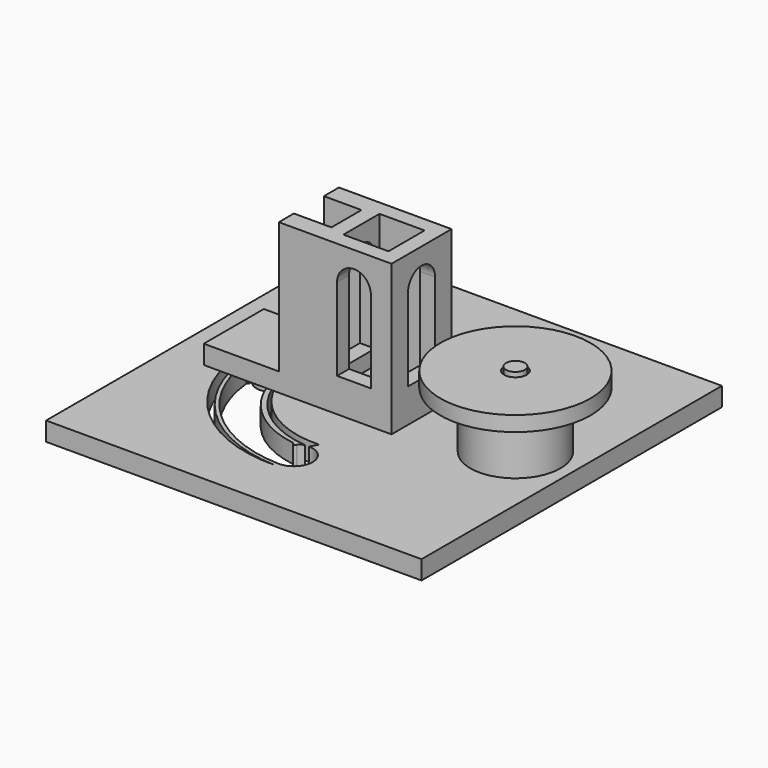
from build123d import *

# Parameters (mm, degrees)
SKETCH_W        = 100
SKETCH_H        = 100
PAD_DEPTH       = 5
SKETCH001_R     = 7
POCKET_DEPTH    = 5
SKETCH007_R     = 12
PAD004_DEPTH    = 15
SKETCH008_R     = 2.5
PAD005_DEPTH    = 5
SKETCH002_W     = 50
SKETCH002_H     = 20
PAD001_DEPTH    = 5
SKETCH003_R     = 6
SKETCH003_R_2   = 4
PAD002_DEPTH    = 5
SKETCH004_W     = 12
SKETCH004_H     = 12
PAD003_DEPTH    = 35
POCKET001_DEPTH = 20
POCKET002_DEPTH = 4
SKETCH009_R     = 20
SKETCH009_R_2   = 3
PAD006_DEPTH    = 4


with BuildPart() as obj1:
    # Sketch → Pad (new body)
    with BuildSketch(Plane.XY):
        Rectangle(SKETCH_W, SKETCH_H)
    extrude(amount=PAD_DEPTH)

    # Sketch001 (on Face6 of Pad) → Pocket (cut)
    with BuildSketch(Plane.XY.offset(5)):
        Circle(SKETCH001_R)
        with BuildLine():
            ThreePointArc((-25, 0), (-30, 5), (-35, 0))
            Line((-37, 0), (-35, 0))
            ThreePointArc((-37, 0), (-26.099801, -25.806976), (0, -35.986108))
            ThreePointArc((-34.986108, -1), (-24.455844, -25.455844), (0, -35.986108))
            ThreePointArc((-34.986108, -1), (-34.572138, -1.816852), (-33.940654, -2.480062))
            ThreePointArc((-33.841405, -3.475124), (-33.393498, -2.927969), (-33.940654, -2.480062))
            ThreePointArc((-33.841405, -3.475124), (-22.86642, -25.620187), (0, -35))
            ThreePointArc((0, -35), (5, -30), (0, -25))
            Line((1.154701, -23), (0, -25))
            ThreePointArc((-24.059928, 0), (-16.229983, -16.737374), (1.154701, -23))
            ThreePointArc((-24.059928, 0), (-17.41358, -16.998237), (-1, -24.979992))
            ThreePointArc((-1, -24.979992), (-1.769218, -25.356079), (-2.410271, -25.923695))
            ThreePointArc((-3.40099, -25.787765), (-2.973596, -26.351089), (-2.410271, -25.923695))
            ThreePointArc((-25, 0), (-19.180882, -17.065296), (-3.40099, -25.787765))
        make_face()
    extrude(amount=-POCKET_DEPTH, mode=Mode.SUBTRACT)

    # Sketch007 (on Face5 of Pocket) → Pad004 (join)
    with BuildSketch(Plane.XY.offset(5)):
        with Locations((35, 0)):
            Circle(SKETCH007_R)
    extrude(amount=PAD004_DEPTH)

    # Sketch008 (on Face23 of Pad004) → Pad005 (join)
    with BuildSketch(Plane.XY.offset(20)):
        with Locations((35, 0)):
            Circle(SKETCH008_R)
    extrude(amount=PAD005_DEPTH)


with BuildPart() as der:
    # Sketch002 (on Face1 of CopyPocket) → Pad001 (new body)
    with BuildSketch(Plane.XY.offset(5)):
        with Locations((-15, 0)):
            Rectangle(SKETCH002_W, SKETCH002_H)
    extrude(amount=PAD001_DEPTH)

    # Sketch003 (on Face5 of Pad001) → Pad002 (join)
    with BuildSketch(Plane(origin=(0, 0, 5), x_dir=(1, 0, 0), z_dir=(0, 0, -1))):
        Circle(SKETCH003_R)
        with Locations((-30, 0)):
            Circle(SKETCH003_R_2)
    extrude(amount=PAD002_DEPTH)

    # Sketch004 (on Face5 of Pad002) → Pad003 (join)
    with BuildSketch(Plane.XY.offset(10)):
        Polygon((10, 10), (-20, 10), (-20, 5), (-10, 5), (-10, -5), (-20, -5), (-20, -10), (10, -10), align=None)
        Rectangle(SKETCH004_W, SKETCH004_H, mode=Mode.SUBTRACT)
    extrude(amount=PAD003_DEPTH)

    # Sketch005 (on Face10 of Pad003) → Pocket001 (cut)
    with BuildSketch(Plane.YZ.offset(10)):
        with BuildLine():
            Line((4.5, 14), (-4.5, 14))
            Line((-4.5, 14), (-4.5, 36))
            ThreePointArc((4.5, 36), (0, 40.5), (-4.5, 36))
            Line((4.5, 36), (4.5, 14))
        make_face()
    extrude(amount=-POCKET001_DEPTH, mode=Mode.SUBTRACT)

    # Sketch006 (on Face11 of Pocket001) → Pocket002 (cut)
    with BuildSketch(Plane.XZ.offset(10)):
        with BuildLine():
            Line((-4.5, 14), (4.5, 14))
            Line((4.5, 14), (4.5, 36))
            ThreePointArc((4.5, 36), (0, 40.5), (-4.5, 36))
            Line((-4.5, 36), (-4.5, 14))
        make_face()
    extrude(amount=-POCKET002_DEPTH, mode=Mode.SUBTRACT)


with BuildPart() as body004:
    # Sketch009 (on Face1 of CopyPad005) → Pad006 (new body)
    with BuildSketch(Plane.XY.offset(20)):
        with Locations((35, 0)):
            Circle(SKETCH009_R)
        with Locations((35, 0)):
            Circle(SKETCH009_R_2, mode=Mode.SUBTRACT)
    extrude(amount=PAD006_DEPTH)


solid = Compound([obj1.part, der.part, body004.part])
